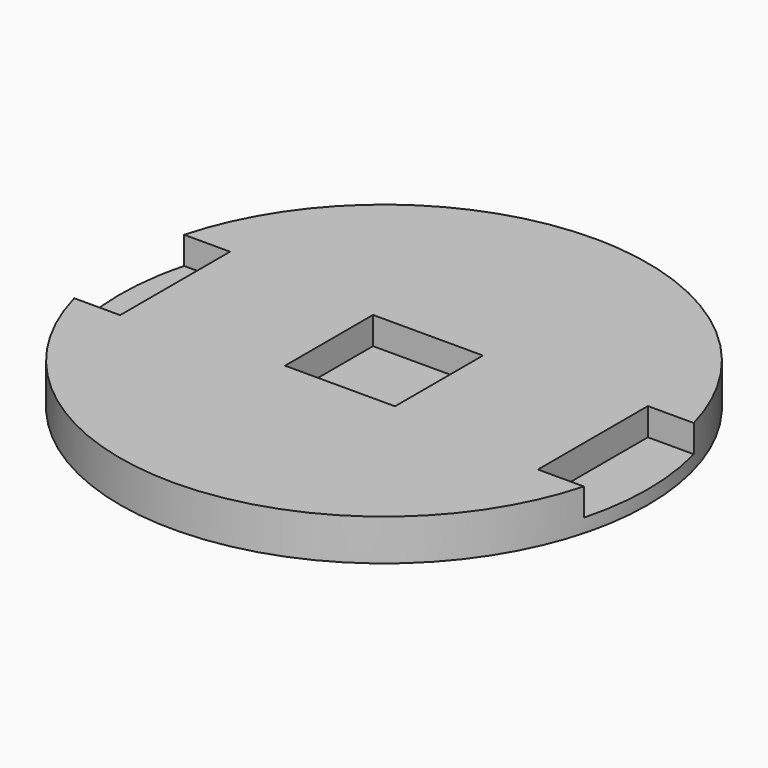
from build123d import *

# Parameters (mm, degrees)
F1_DEPTH = 2.38125
F3_DEPTH = 3.175
F4_W     = 3.175
F4_H     = 7.9375
F5_DEPTH = 1.5875


with BuildPart() as f1:
    # F0 (on Top) → F1 (new body)
    with BuildSketch(Plane.XY):
        with BuildLine():
            add(Edge.make_bspline(
                [(0, 15.24), (-26.3964543073, 15.24), (-13.1982271537, -7.62), (0, -30.48), (13.1982271537, -7.62), (26.3964543073, 15.24), (0, 15.24)],
                knots=[0, 0, 0, 2.0943951024, 2.0943951024, 4.1887902048, 4.1887902048, 6.2831853072, 6.2831853072, 6.2831853072], degree=2, weights=[1, 0.5, 1, 0.5, 1, 0.5, 1]))
        make_face()
    extrude(amount=F1_DEPTH)

    # F2 (on Right) → F3 (cut, symmetric)
    with BuildSketch(Plane.YZ):
        Polygon((-3.175, 0.79375), (0, 0.79375), (3.175, 0.79375), (3.175, 3.9442702307), (-3.175, 3.9442702307), align=None)
    extrude(amount=F3_DEPTH, both=True, mode=Mode.SUBTRACT)

    # F4 (on face) → F5 (cut)
    with BuildSketch(Plane.XY.offset(2.38125)):
        with Locations((-13.6525, 0)):
            Rectangle(F4_W, F4_H)
        with Locations((13.6525, 0)):
            Rectangle(F4_W, F4_H)
    extrude(amount=-F5_DEPTH, mode=Mode.SUBTRACT)


solid = f1.part
